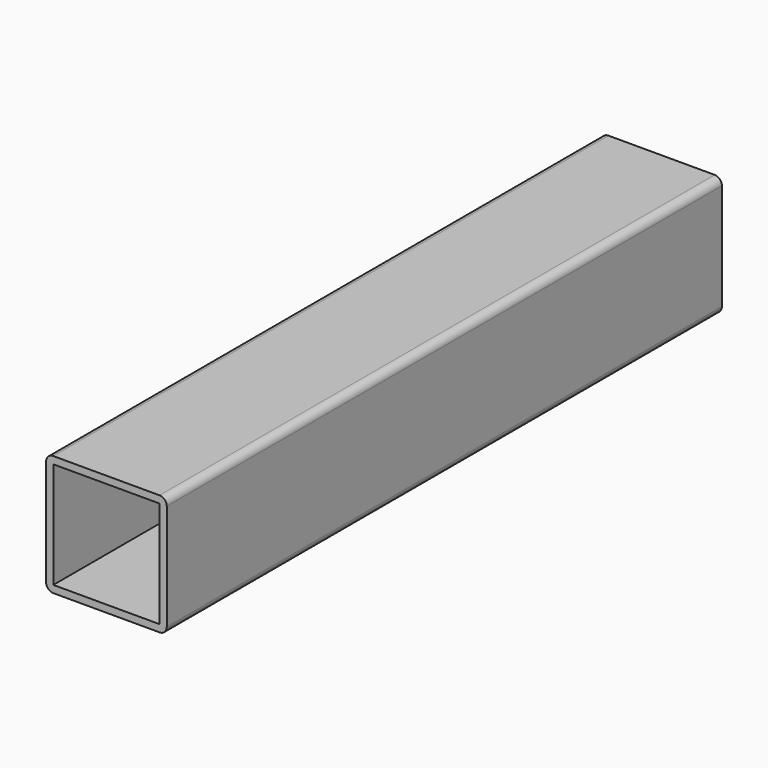
from build123d import *

# Parameters (mm, degrees)
F0_W     = 22.352
F0_H     = 22.352
F1_DEPTH = 146.05


with BuildPart() as f1:
    # F0 (on Front) → F1 (new body)
    with BuildSketch(Plane.XZ):
        with BuildLine():
            ThreePointArc((0, 1.524), (0.446369, 0.446369), (1.524, 0))
            Line((1.524, 0), (23.876, 0))
            ThreePointArc((23.876, 0), (24.953631, 0.446369), (25.4, 1.524))
            Line((25.4, 1.524), (25.4, 23.876))
            ThreePointArc((25.4, 23.876), (24.953631, 24.953631), (23.876, 25.4))
            Line((23.876, 25.4), (1.524, 25.4))
            ThreePointArc((1.524, 25.4), (0.446369, 24.953631), (0, 23.876))
            Line((0, 23.876), (0, 1.524))
        make_face()
        with Locations((12.7, 12.7)):
            Rectangle(F0_W, F0_H, mode=Mode.SUBTRACT)
    extrude(amount=F1_DEPTH)


solid = f1.part
